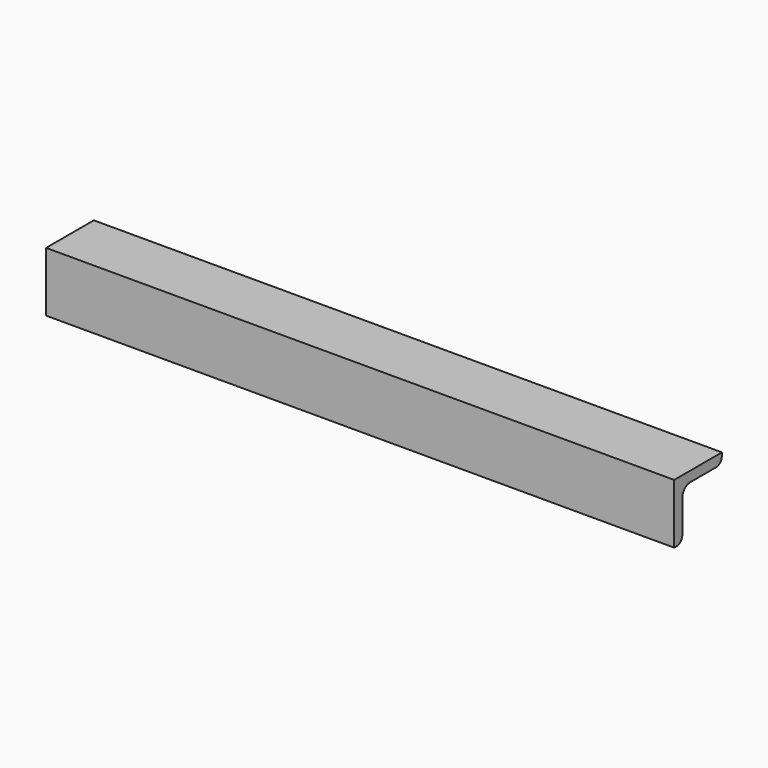
from build123d import *

# Parameters (mm, degrees)
F1_DEPTH = 101.6


with BuildPart() as f1:
    # F0 (on Right) → F1 (new body, symmetric)
    with BuildSketch(Plane.YZ):
        with BuildLine():
            Line((19.304, 0), (0, 0))
            Line((0, 0), (0, -19.304))
            Line((0, -19.304), (0.9398, -19.304))
            ThreePointArc((0.9398, -19.304), (2.610128, -18.612128), (3.302, -16.9418))
            Line((3.302, -16.9418), (3.302, -6.477))
            ThreePointArc((3.302, -6.477), (4.231936, -4.231936), (6.477, -3.302))
            Line((6.477, -3.302), (16.9418, -3.302))
            ThreePointArc((16.9418, -3.302), (18.612128, -2.610128), (19.304, -0.9398))
            Line((19.304, -0.9398), (19.304, 0))
        make_face()
    extrude(amount=F1_DEPTH, both=True)


solid = f1.part
